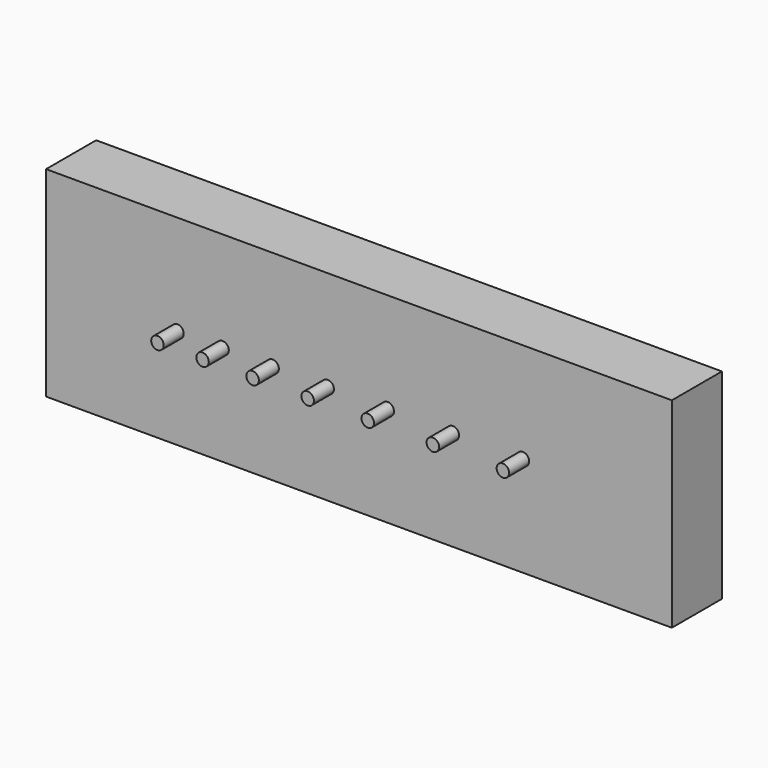
from build123d import *

# Parameters (mm, degrees)
F0_W     = 250
F0_H     = 80
F1_DEPTH = 25
F3_DEPTH = 10


with BuildPart() as f1:
    # F0 (on Front) → F1 (new body)
    with BuildSketch(Plane.XZ):
        with Locations((12.53889, 34.506205)):
            Rectangle(F0_W, F0_H)
    extrude(amount=F1_DEPTH)

    # F2 (on face) → F3 (join)
    with BuildSketch(Plane.XZ.offset(25)):
        with BuildLine():
            ThreePointArc((-57.46111, 34.506205), (-59.96111, 37.006205), (-62.46111, 34.506205))
            Line((-62.46111, 34.506205), (-57.46111, 34.506205))
        make_face()
        with BuildLine():
            ThreePointArc((80.53889, 34.506205), (78.03889, 37.006205), (75.53889, 34.506205))
            Line((75.53889, 34.506205), (80.53889, 34.506205))
        make_face()
        with BuildLine():
            Line((80.53889, 34.506205), (75.53889, 34.506205))
            ThreePointArc((75.53889, 34.506205), (78.03889, 32.006205), (80.53889, 34.506205))
        make_face()
        with BuildLine():
            ThreePointArc((52.53889, 34.506205), (50.03889, 37.006205), (47.53889, 34.506205))
            Line((47.53889, 34.506205), (52.53889, 34.506205))
        make_face()
        with BuildLine():
            Line((52.53889, 34.506205), (47.53889, 34.506205))
            ThreePointArc((47.53889, 34.506205), (50.03889, 32.006205), (52.53889, 34.506205))
        make_face()
        with BuildLine():
            ThreePointArc((26.53889, 34.506205), (24.03889, 37.006205), (21.53889, 34.506205))
            Line((21.53889, 34.506205), (26.53889, 34.506205))
        make_face()
        with BuildLine():
            Line((26.53889, 34.506205), (21.53889, 34.506205))
            ThreePointArc((21.53889, 34.506205), (24.03889, 32.006205), (26.53889, 34.506205))
        make_face()
        with BuildLine():
            ThreePointArc((2.53889, 34.506205), (0.03889, 37.006205), (-2.46111, 34.506205))
            Line((-2.46111, 34.506205), (2.53889, 34.506205))
        make_face()
        with BuildLine():
            Line((2.53889, 34.506205), (-2.46111, 34.506205))
            ThreePointArc((-2.46111, 34.506205), (0.03889, 32.006205), (2.53889, 34.506205))
        make_face()
        with BuildLine():
            ThreePointArc((-19.46111, 34.506205), (-21.96111, 37.006205), (-24.46111, 34.506205))
            Line((-24.46111, 34.506205), (-19.46111, 34.506205))
        make_face()
        with BuildLine():
            Line((-19.46111, 34.506205), (-24.46111, 34.506205))
            ThreePointArc((-24.46111, 34.506205), (-21.96111, 32.006205), (-19.46111, 34.506205))
        make_face()
        with BuildLine():
            ThreePointArc((-39.46111, 34.506205), (-41.96111, 37.006205), (-44.46111, 34.506205))
            Line((-44.46111, 34.506205), (-39.46111, 34.506205))
        make_face()
        with BuildLine():
            Line((-39.46111, 34.506205), (-44.46111, 34.506205))
            ThreePointArc((-44.46111, 34.506205), (-41.96111, 32.006205), (-39.46111, 34.506205))
        make_face()
        with BuildLine():
            Line((-57.46111, 34.506205), (-62.46111, 34.506205))
            ThreePointArc((-62.46111, 34.506205), (-59.96111, 32.006205), (-57.46111, 34.506205))
        make_face()
    extrude(amount=F3_DEPTH)


solid = f1.part
